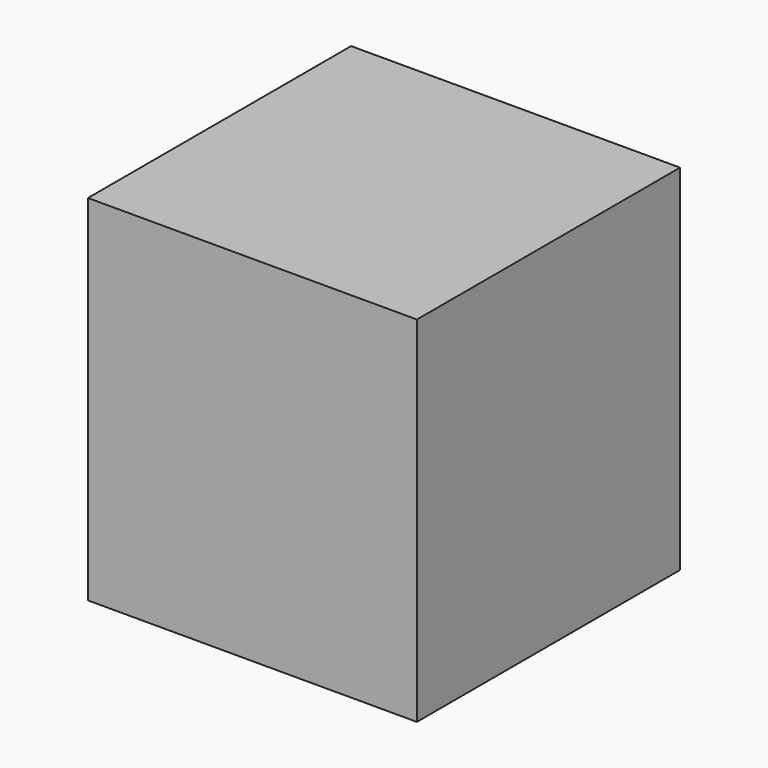
from build123d import *

# Parameters (mm, degrees)
F0_W     = 13
F0_H     = 13
F1_DEPTH = 14
F2_R     = 1
F3_DEPTH = 1
F4_R     = 2
F5_DEPTH = 1.2


with BuildPart() as f1:
    # F0 (on Top) → F1 (new body)
    with BuildSketch(Plane.XY):
        Rectangle(F0_W, F0_H)
    extrude(amount=F1_DEPTH)

    # F2 (on face) → F3 (join)
    with BuildSketch(Plane(origin=(0, 0, 0), x_dir=(1, 0, 0), z_dir=(0, 0, -1))):
        Circle(F2_R)
    extrude(amount=F3_DEPTH)

    # F4 (on face) → F5 (join)
    with BuildSketch(Plane(origin=(0, 0, -1), x_dir=(1, 0, 0), z_dir=(0, 0, -1))):
        Circle(F4_R)
    extrude(amount=F5_DEPTH)


solid = f1.part
